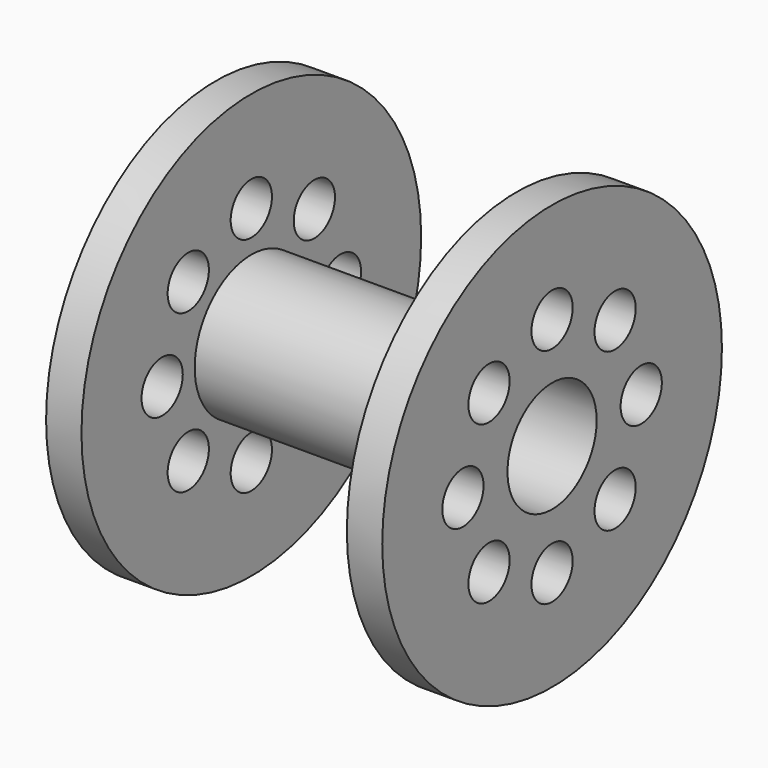
from build123d import *

# Parameters (mm, degrees)
F0_W     = 2.54
F0_H     = 10.16
F0_H_2   = 5.08
F0_W_2   = 19.05
F2_R     = 4
F2_R_2   = 1.85
F3_DEPTH = 25.4


with BuildPart() as f1:
    # F0 (on Top) → F1 (revolve)
    with BuildSketch(Plane.XY):
        with Locations((-10.795, 10.16)):
            Rectangle(F0_W, F0_H)
        with Locations((-10.795, 2.54)):
            Rectangle(F0_W, F0_H_2)
        with Locations((0, 2.54)):
            Rectangle(F0_W_2, F0_H_2)
        Polygon((9.525, 15.24), (9.525, 5.08), (9.525, 0), (12.065, 0), (12.065, 15.24), align=None)
    revolve(axis=Axis((0, 0, 0), (1, 0, 0)))

    # F2 (on face) → F3 (cut)
    with BuildSketch(Plane.YZ.offset(12.065)):
        Circle(F2_R)
        with Locations((0, 8)):
            Circle(F2_R_2)
        with Locations((-5.656854, 5.656854)):
            Circle(F2_R_2)
        with Locations((-8, 0)):
            Circle(F2_R_2)
        with Locations((-5.656854, -5.656854)):
            Circle(F2_R_2)
        with Locations((0, -8)):
            Circle(F2_R_2)
        with Locations((5.656854, -5.656854)):
            Circle(F2_R_2)
        with Locations((8, 0)):
            Circle(F2_R_2)
        with Locations((5.656854, 5.656854)):
            Circle(F2_R_2)
    extrude(amount=-F3_DEPTH, mode=Mode.SUBTRACT)


solid = f1.part
